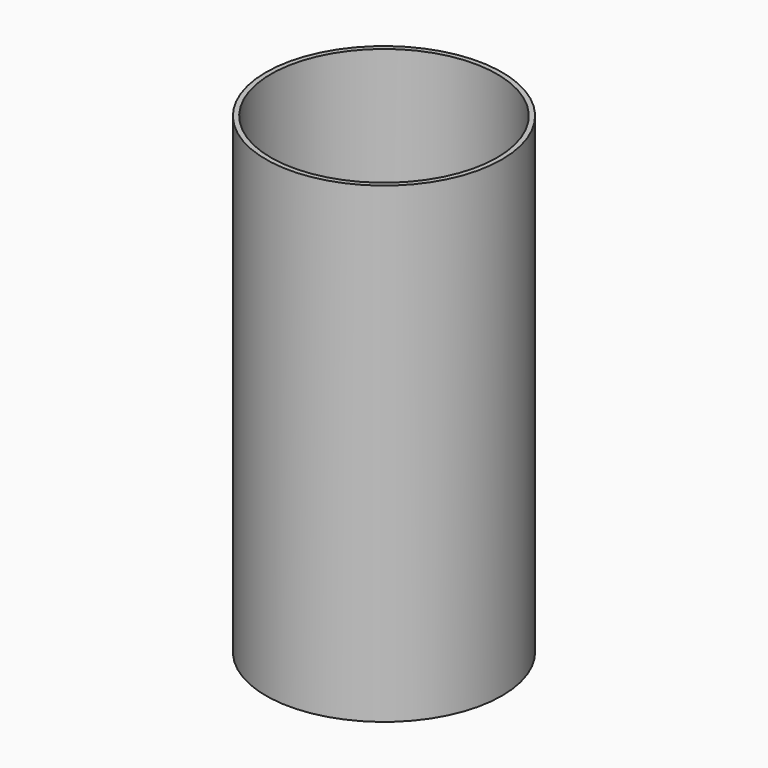
from build123d import *

# Parameters (mm, degrees)
F0_R     = 304.8
F1_DEPTH = 1219.2
F2_T     = -12.7


with BuildPart() as f1:
    # F0 (on Top) → F1 (new body)
    with BuildSketch(Plane.XY):
        Circle(F0_R)
    extrude(amount=-F1_DEPTH)

    # F2
    f2_openings = [f1.faces().sort_by_distance(p)[0] for p in [
        (0, 0, 0),
        (0, 0, -1219.2),
    ]]
    offset(amount=F2_T, openings=f2_openings)


solid = f1.part
